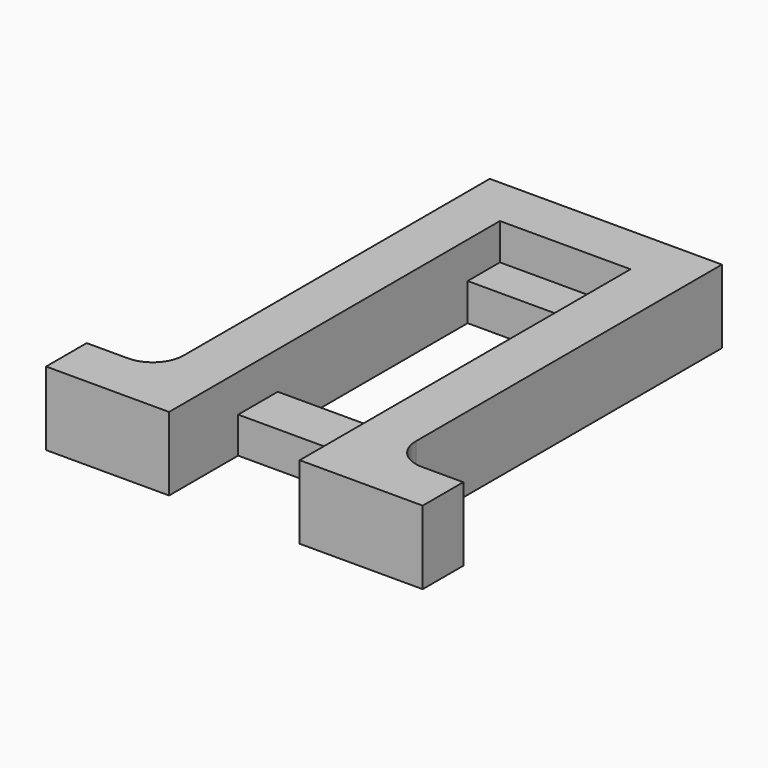
from build123d import *

# Parameters (mm, degrees)
F0_W     = 36.5
F0_H     = 45
F1_DEPTH = 7.13
F2_W     = 7
F2_H     = 40.08
F3_DEPTH = 7.13
F4_W     = 12.66
F4_H     = 36.17
F5_DEPTH = 7.13
F6_W     = 12.66
F6_H     = 3.91
F7_DEPTH = 3.53
F8_W     = 12.66
F8_H     = 4.8
F9_DEPTH = 3.5
F10_R    = 3


with BuildPart() as f1:
    # F0 (on Top) → F1 (new body)
    with BuildSketch(Plane.XY):
        with Locations((2.660514, 5.255292)):
            Rectangle(F0_W, F0_H)
    extrude(amount=F1_DEPTH)

    # F2 (on face) → F3 (cut)
    with BuildSketch(Plane.XY.offset(7.13)):
        with Locations((-12.089486, 7.715292)):
            Rectangle(F2_W, F2_H)
        with Locations((17.410514, 7.715292)):
            Rectangle(F2_W, F2_H)
    extrude(amount=-F3_DEPTH, mode=Mode.SUBTRACT)

    # F4 (on face) → F5 (cut)
    with BuildSketch(Plane.XY.offset(7.13)):
        with Locations((2.660514, 0.840292)):
            Rectangle(F4_W, F4_H)
    extrude(amount=-F5_DEPTH, mode=Mode.SUBTRACT)

    # F6 (on face) → F7 (cut)
    with BuildSketch(Plane.XY.offset(7.13)):
        with Locations((2.660514, 20.880292)):
            Rectangle(F6_W, F6_H)
    extrude(amount=-F7_DEPTH, mode=Mode.SUBTRACT)

    # F8 (on face) → F9 (join)
    with BuildSketch(Plane(origin=(0, 0, 0), x_dir=(1, 0, 0), z_dir=(0, 0, -1))):
        with Locations((2.660514, 6.474708)):
            Rectangle(F8_W, F8_H)
    extrude(amount=-F9_DEPTH)

    # F10
    f10_edges = [f1.edges().sort_by_distance(p)[0] for p in [
        (13.910514, -12.324708, 3.565),
        (-8.589486, -12.324708, 3.565),
    ]]
    fillet(f10_edges, radius=F10_R)


solid = f1.part
